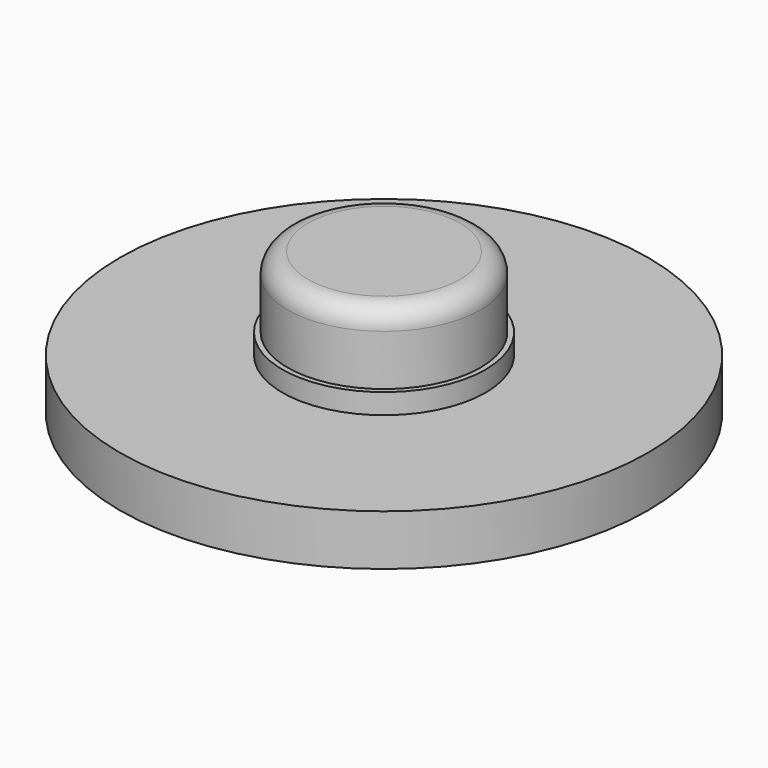
from build123d import *

# Parameters (mm, degrees)
F0_R     = 13
F1_DEPTH = 2.5
F2_R     = 5
F3_DEPTH = 3.5
F4_R     = 4.745
F5_DEPTH = 7
F6_R     = 1


with BuildPart() as f1:
    # F0 (on Top) → F1 (new body)
    with BuildSketch(Plane.XY):
        Circle(F0_R)
    extrude(amount=F1_DEPTH)

    # F2 (on Top) → F3 (join)
    with BuildSketch(Plane.XY):
        Circle(F2_R)
    extrude(amount=F3_DEPTH)

    # F4 (on Top) → F5 (join)
    with BuildSketch(Plane.XY):
        Circle(F4_R)
    extrude(amount=F5_DEPTH)

    # F6
    f6_edges = [f1.edges().sort_by_distance(p)[0] for p in [
        (-4.745, 0, 7),
    ]]
    fillet(f6_edges, radius=F6_R)


solid = f1.part
